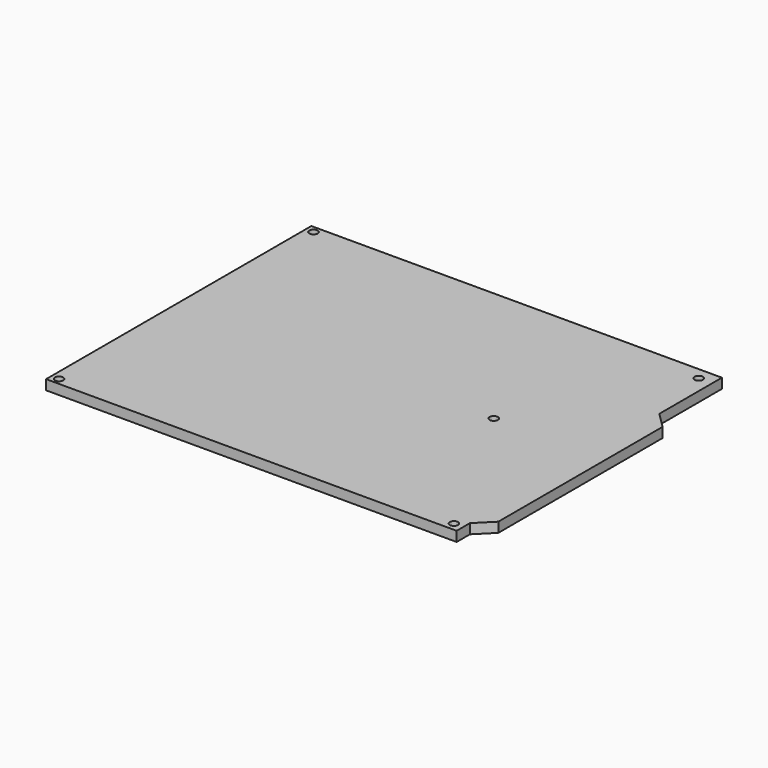
from build123d import *

# Parameters (mm, degrees)
F1_DEPTH = 1.588
F2_R     = 0.6665
F3_DEPTH = 25


with BuildPart() as f1:
    # F0 (on Top) → F1 (new body)
    with BuildSketch(Plane.XY):
        Polygon((33.02, 33.02), (-33.02, 33.02), (-33.02, -20.32), (33.02, -20.32), (33.02, -17.653), (33.02, 20.447), align=None)
        Polygon((35.56, 17.907), (33.02, 20.447), (33.02, -17.653), (35.56, -15.113), align=None)
    extrude(amount=F1_DEPTH)

    # F2 (on face) → F3 (cut)
    with BuildSketch(Plane.XY.offset(1.588)):
        with Locations((-31.787474, -19.253692)):
            Circle(F2_R)
        with Locations((31.522945, -18.9865)):
            Circle(F2_R)
        with Locations((17.568811, 6.458091)):
            Circle(F2_R)
        with Locations((30.844872, 31.076551)):
            Circle(F2_R)
        with Locations((-31.787474, 31.911463)):
            Circle(F2_R)
    extrude(amount=-F3_DEPTH, mode=Mode.SUBTRACT)


solid = f1.part
